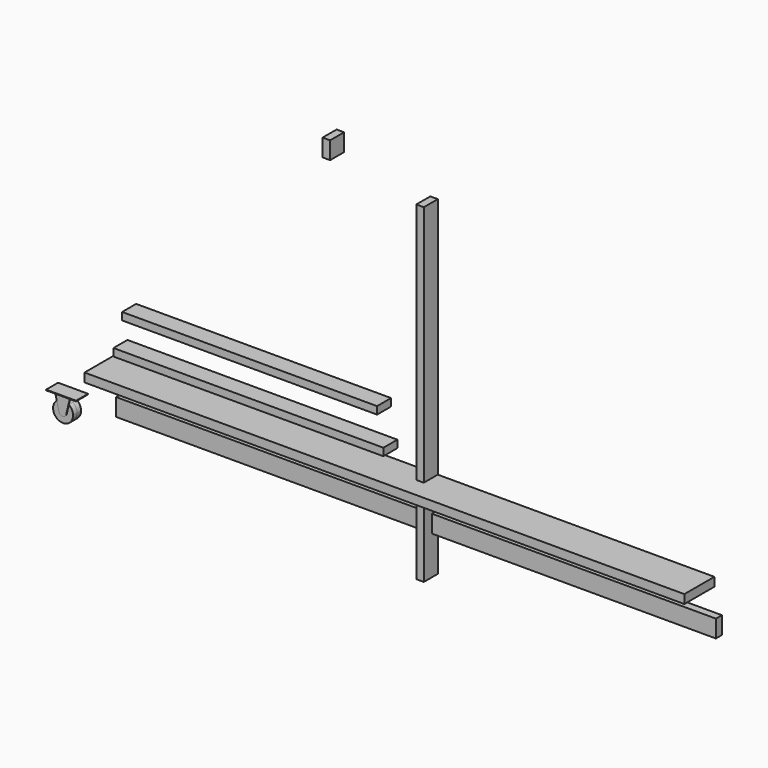
from build123d import *

# Parameters (mm, degrees)
F0_W      = 38.1
F0_H      = 1676.4
F1_DEPTH  = 88.9
F2_W      = 38.1
F2_H      = 88.9
F3_DEPTH  = 88.9
F4_W      = 1371.6
F4_H      = 38.1
F5_DEPTH  = 88.9
F7_DEPTH  = 38.1
F8_START  = -25.4
F8_DEPTH  = 3.175
F9_START  = 25.4
F9_DEPTH  = 3.175
F10_DEPTH = 25.4
F11_W     = 1295.4
F11_H     = 38.1
F12_DEPTH = 88.9
F13_W     = 3048
F13_H     = 44.45
F14_DEPTH = 190.5
F15_W     = 3048
F15_H     = 88.9
F16_DEPTH = 38.1


with BuildPart() as f1:
    # F0 (on Front) → F1 (new body)
    with BuildSketch(Plane.XZ):
        with Locations((108.7546263142, 801.9786462794)):
            Rectangle(F0_W, F0_H)
    extrude(amount=F1_DEPTH)


with BuildPart() as f3:
    # F2 (on Front) → F3 (new body)
    with BuildSketch(Plane.XZ):
        with Locations((-367.4653470516, 1740.0070304467)):
            Rectangle(F2_W, F2_H)
    extrude(amount=F3_DEPTH)


with BuildPart() as f5:
    # F4 (on Front) → F5 (new body)
    with BuildSketch(Plane.XZ):
        with Locations((-763.4580210589, 478.4468412399)):
            Rectangle(F4_W, F4_H)
    extrude(amount=F5_DEPTH)


with BuildPart() as f7:
    # F6 (on Front) → F7 (new body, symmetric)
    with BuildSketch(Plane.XZ):
        Polygon((-1679.7477558136, 166.2040746689), (-1832.1477558136, 166.2040746689), (-1832.1477558136, 163.0290746689), (-1794.0477558136, 163.0290746689), (-1717.8477558136, 163.0290746689), (-1679.7477558136, 163.0290746689), align=None)
    extrude(amount=F7_DEPTH, both=True)

    # F6 (on Front) → F8 (join)
    with BuildSketch(Plane.XZ.offset(F8_START)):
        with BuildLine():
            ThreePointArc((-1726.3266209758, 128.0992621039), (-1755.9477558136, 137.6290746689), (-1785.5688906514, 128.0992621039))
            Line((-1785.5688906514, 128.0992621039), (-1774.4601607885, 82.3353721814))
            ThreePointArc((-1774.4601607885, 82.3353721814), (-1755.9477558136, 67.7790746689), (-1737.4353508387, 82.3353721814))
            Line((-1737.4353508387, 82.3353721814), (-1726.3266209758, 128.0992621039))
        make_face()
        with BuildLine():
            Line((-1717.8477558136, 163.0290746689), (-1794.0477558136, 163.0290746689))
            Line((-1794.0477558136, 163.0290746689), (-1785.5688906514, 128.0992621039))
            ThreePointArc((-1785.5688906514, 128.0992621039), (-1755.9477558136, 137.6290746689), (-1726.3266209758, 128.0992621039))
            Line((-1726.3266209758, 128.0992621039), (-1717.8477558136, 163.0290746689))
        make_face()
    extrude(amount=-F8_DEPTH)

    # F6 (on Front) → F9 (join)
    with BuildSketch(Plane.XZ.offset(F9_START)):
        with BuildLine():
            Line((-1717.8477558136, 163.0290746689), (-1794.0477558136, 163.0290746689))
            Line((-1794.0477558136, 163.0290746689), (-1785.5688906514, 128.0992621039))
            ThreePointArc((-1785.5688906514, 128.0992621039), (-1755.9477558136, 137.6290746689), (-1726.3266209758, 128.0992621039))
            Line((-1726.3266209758, 128.0992621039), (-1717.8477558136, 163.0290746689))
        make_face()
        with BuildLine():
            ThreePointArc((-1726.3266209758, 128.0992621039), (-1755.9477558136, 137.6290746689), (-1785.5688906514, 128.0992621039))
            Line((-1785.5688906514, 128.0992621039), (-1774.4601607885, 82.3353721814))
            ThreePointArc((-1774.4601607885, 82.3353721814), (-1755.9477558136, 67.7790746689), (-1737.4353508387, 82.3353721814))
            Line((-1737.4353508387, 82.3353721814), (-1726.3266209758, 128.0992621039))
        make_face()
    extrude(amount=F9_DEPTH)

    # F6 (on Front) → F10 (join, symmetric)
    with BuildSketch(Plane.XZ):
        with BuildLine():
            ThreePointArc((-1726.3266209758, 128.0992621039), (-1755.9477558136, 137.6290746689), (-1785.5688906514, 128.0992621039))
            Line((-1785.5688906514, 128.0992621039), (-1774.4601607885, 82.3353721814))
            ThreePointArc((-1774.4601607885, 82.3353721814), (-1755.9477558136, 67.7790746689), (-1737.4353508387, 82.3353721814))
            Line((-1737.4353508387, 82.3353721814), (-1726.3266209758, 128.0992621039))
        make_face()
        with BuildLine():
            Line((-1774.4601607885, 82.3353721814), (-1785.5688906514, 128.0992621039))
            ThreePointArc((-1785.5688906514, 128.0992621039), (-1779.1413578434, 41.6328710133), (-1705.1477558136, 86.8290746689))
            ThreePointArc((-1705.1477558136, 86.8290746689), (-1710.751552158, 110.0226766987), (-1726.3266209758, 128.0992621039))
            Line((-1726.3266209758, 128.0992621039), (-1737.4353508387, 82.3353721814))
            ThreePointArc((-1737.4353508387, 82.3353721814), (-1755.9477558136, 67.7790746689), (-1774.4601607885, 82.3353721814))
        make_face()
    extrude(amount=F10_DEPTH, both=True)


with BuildPart() as f12:
    # F11 (on Front) → F12 (new body)
    with BuildSketch(Plane.XZ):
        with Locations((-757.3101041794, 654.1661599159)):
            Rectangle(F11_W, F11_H)
    extrude(amount=F12_DEPTH)


with BuildPart() as f14:
    # F13 (on Front) → F14 (new body)
    with BuildSketch(Plane.XZ):
        with Locations((9.1657526059, 385.5807185173)):
            Rectangle(F13_W, F13_H)
    extrude(amount=F14_DEPTH)


with BuildPart() as f16:
    # F15 (on Front) → F16 (new body)
    with BuildSketch(Plane.XZ):
        with Locations((47.5043764114, 204.1886449575)):
            Rectangle(F15_W, F15_H)
    extrude(amount=F16_DEPTH)


solid = Compound([f1.part, f3.part, f5.part, f7.part, f12.part, f14.part, f16.part])
